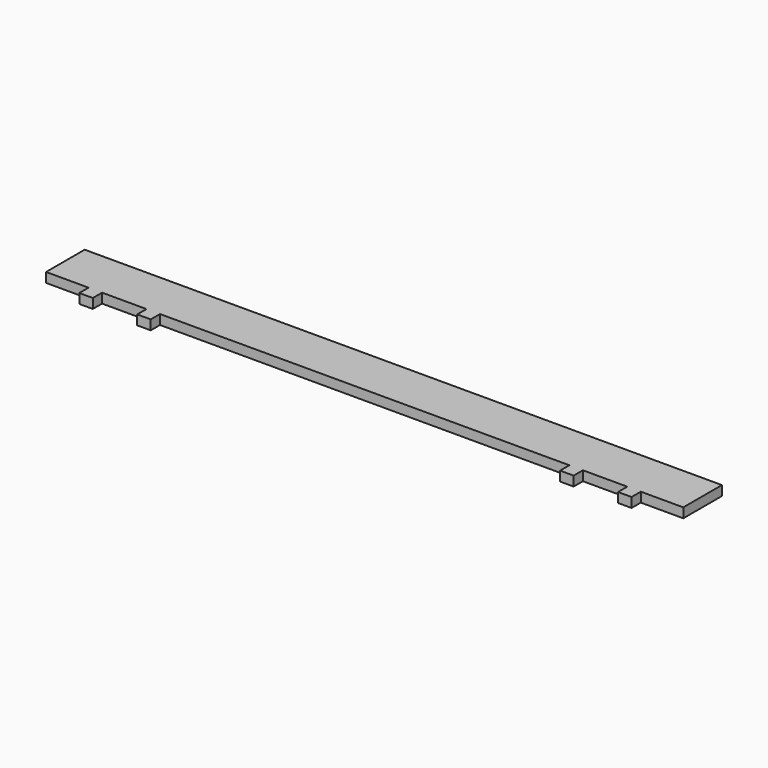
from build123d import *

# Parameters (mm, degrees)
F1_DEPTH = 5


with BuildPart() as f1:
    # F0 (on Top) → F1 (new body)
    with BuildSketch(Plane.XY):
        Polygon((-106, 0), (0, 0), (0, 25), (-165, 25), (-165, 0), (-143, 0), (-143, -6), (-136, -6), (-136, 0), (-113, 0), (-113, -6), (-106, -6), align=None)
    extrude(amount=F1_DEPTH)

    # F2: F1 across face


with BuildPart() as f1_1:
    add(f1.part)
    add(f1.part.mirror(Plane(origin=(0, 12.5, 2.5), x_dir=(0, 1, 0), z_dir=(1, 0, 0))))


solid = f1_1.part
